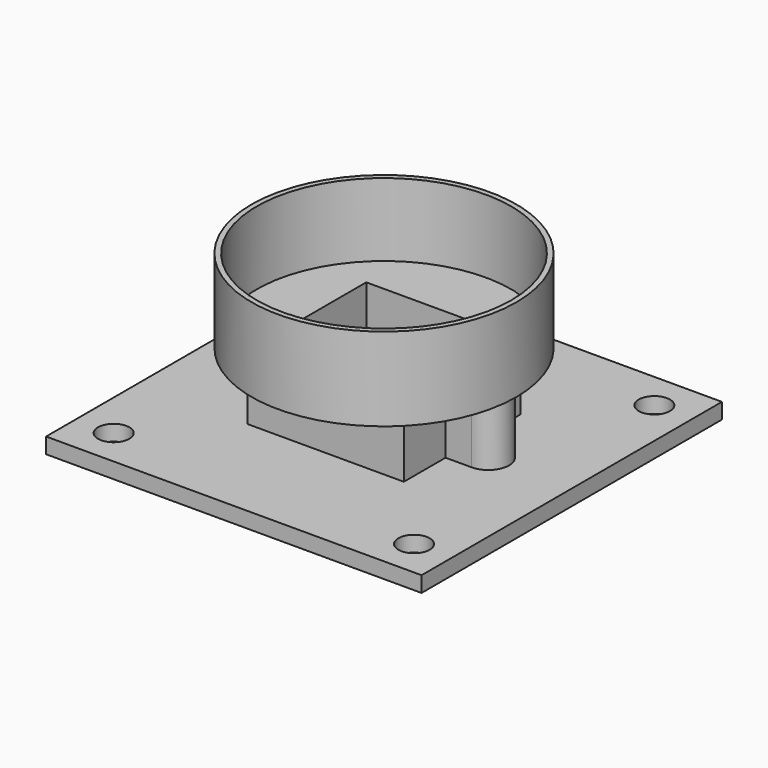
from build123d import *

# Parameters (mm, degrees)
F0_W     = 36
F0_H     = 36
F0_R     = 1.5
F1_DEPTH = 1.5
F2_W     = 5.409108
F2_H     = 5.18275
F3_DEPTH = 0.5
F4_W     = 13
F4_H     = 12
F4_R     = 0.75
F5_DEPTH = 6
F6_R     = 12.7
F6_W     = 13
F6_H     = 12
F7_DEPTH = 1
F8_R     = 12.7
F8_R_2   = 12.2
F9_DEPTH = 7


with BuildPart() as f1:
    # F0 (on Top) → F1 (new body)
    with BuildSketch(Plane.XY):
        Rectangle(F0_W, F0_H)
        with Locations((-14.4, -14.4)):
            Circle(F0_R, mode=Mode.SUBTRACT)
        with Locations((14.4, -14.4)):
            Circle(F0_R, mode=Mode.SUBTRACT)
        with Locations((-14.4, 14.4)):
            Circle(F0_R, mode=Mode.SUBTRACT)
        with Locations((14.4, 14.4)):
            Circle(F0_R, mode=Mode.SUBTRACT)
    extrude(amount=F1_DEPTH)


with BuildPart() as f3:
    # F2 (on face) → F3 (new body)
    with BuildSketch(Plane.XY.offset(1.5)):
        Rectangle(F2_W, F2_H)
    extrude(amount=F3_DEPTH)


with BuildPart() as f5:
    # F4 (on face) → F5 (new body)
    with BuildSketch(Plane.XY.offset(1.5)):
        Polygon((-7.5, -7), (7.5, -7), (7.5, -2), (7.5, 2), (7.5, 7), (-7.5, 7), (-7.5, 2), (-7.5, -2), align=None)
        Rectangle(F4_W, F4_H, mode=Mode.SUBTRACT)
        with BuildLine():
            Line((-10, -2), (-7.5, -2))
            Line((-7.5, -2), (-7.5, 2))
            Line((-7.5, 2), (-10, 2))
            ThreePointArc((-10, 2), (-12, 0), (-10, -2))
        make_face()
        with Locations((-10, 0)):
            Circle(F4_R, mode=Mode.SUBTRACT)
        with BuildLine():
            Line((7.5, 2), (7.5, -2))
            Line((7.5, -2), (10, -2))
            ThreePointArc((10, -2), (12, 0), (10, 2))
            Line((10, 2), (7.5, 2))
        make_face()
        with Locations((10, 0)):
            Circle(F4_R, mode=Mode.SUBTRACT)
    extrude(amount=F5_DEPTH)

    # F6 (on face) → F7 (join)
    with BuildSketch(Plane.XY.offset(7.5)):
        Circle(F6_R)
        Rectangle(F6_W, F6_H, mode=Mode.SUBTRACT)
    extrude(amount=F7_DEPTH)

    # F8 (on face) → F9 (join)
    with BuildSketch(Plane.XY.offset(8.5)):
        Circle(F8_R)
        Circle(F8_R_2, mode=Mode.SUBTRACT)
    extrude(amount=F9_DEPTH)


solid = Compound([f1.part, f3.part, f5.part])
